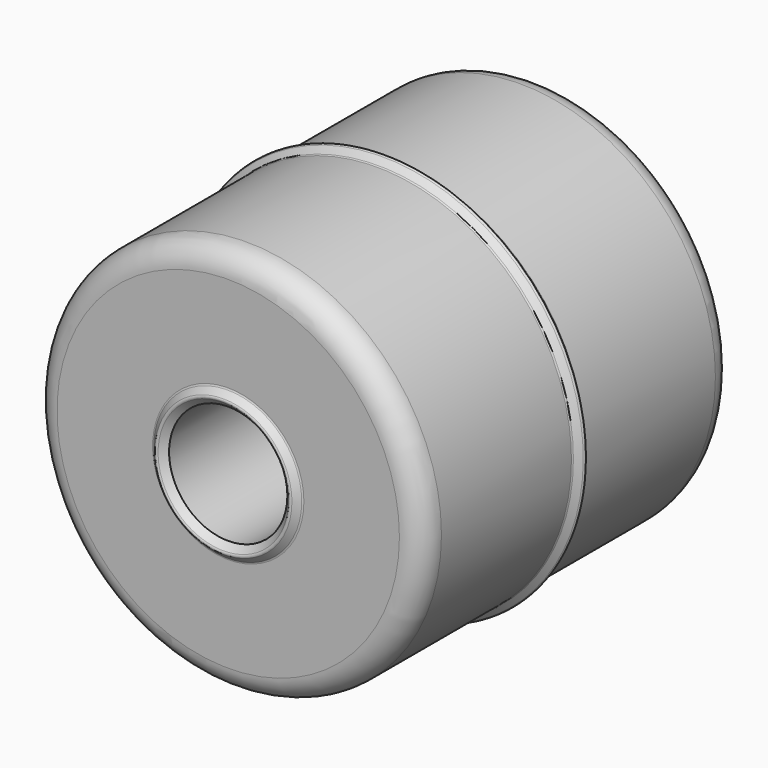
from build123d import *

# Parameters (mm, degrees)
FILLET_R    = 1.905
FILLET001_R = 0.1905


with BuildPart() as part:
    # Sketch043 → Revolution002 (revolve)
    with BuildSketch(Plane.XY):
        Polygon((15.875, -15.875), (15.875, -0.635), (16.51, 0), (15.875, 0.635), (15.875, 15.875), (6.096, 15.875), (5.461, 16.51), (4.826, 15.875), (4.826, -15.875), (5.461, -16.51), (6.096, -15.875), align=None)
    revolve(axis=Axis((0, 0, 0), (0, 1, 0)))

    # Fillet
    fillet_edges = [part.edges().sort_by_distance(p)[0] for p in [
        (-15.875, -15.875, 0),
        (-15.875, 15.875, 0),
    ]]
    fillet(fillet_edges, radius=FILLET_R)

    # Fillet001
    fillet001_edges = [part.edges().sort_by_distance(p)[0] for p in [
        (-5.461, 16.51, 0),
        (-16.51, 0, 0),
        (-6.096, 15.875, 0),
        (-15.875, 0.635, 0),
        (-15.875, -0.635, 0),
        (-6.096, -15.875, 0),
        (-5.461, -16.51, 0),
    ]]
    fillet(fillet001_edges, radius=FILLET001_R)


with BuildPart() as part_1:
    # Body003 placement: moved
    add(part.part.moved(Location((0, 22.86, 0))))


solid = part_1.part
